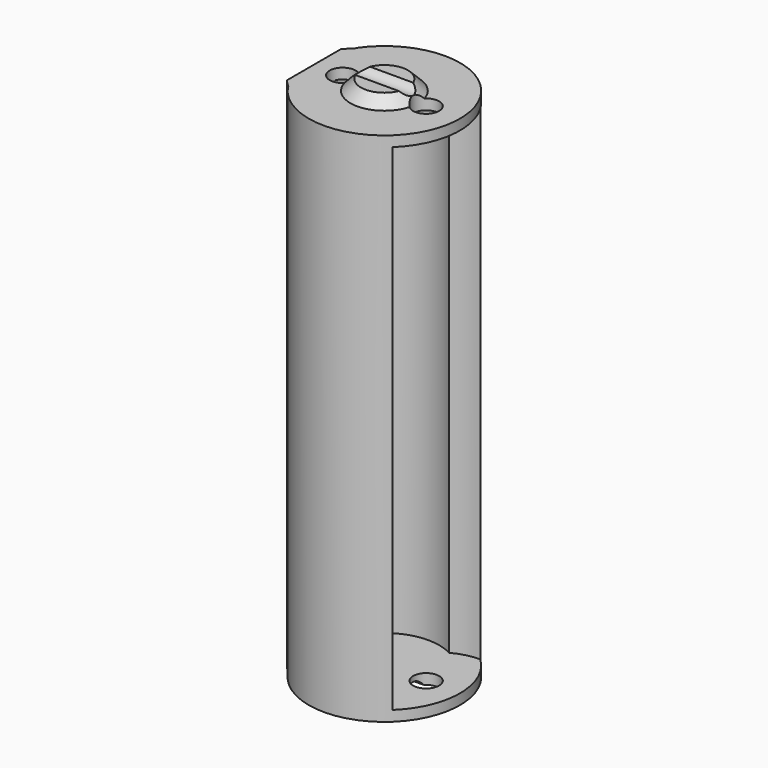
from build123d import *

# Parameters (mm, degrees)
BOX001_W          = 1.51
BOX001_H          = 9.5
BOX001_DEPTH      = 49.5
CHAMFER001_SIZE   = 1.5
BOX_W             = 5
BOX_H             = 20
BOX_DEPTH         = 60
CYLINDER005_R     = 1.25
CYLINDER005_DEPTH = 55
CYLINDER004_R     = 1.25
CYLINDER004_DEPTH = 55
CYLINDER007_R     = 1
CYLINDER007_DEPTH = 8
CYLINDER006_R     = 1
CYLINDER006_DEPTH = 8
CYLINDER002_R     = 5.25
CYLINDER002_DEPTH = 47.5
CYLINDER003_R     = 5.25
CYLINDER003_DEPTH = 47.5
CYLINDER001_R     = 3.25
CYLINDER001_DEPTH = 50.5
CHAMFER_SIZE      = 1
CYLINDER_R        = 7.25
CYLINDER_DEPTH    = 49.5


with BuildPart() as chamfer001:
    # Box001 → Box001 (new body)
    with BuildSketch(Plane(origin=(-6.76, -4.75, 0), x_dir=(1, 0, 0), z_dir=(0, 0, 1))):
        with Locations((0.755, 4.75)):
            Rectangle(BOX001_W, BOX001_H)
    extrude(amount=BOX001_DEPTH)

    # Chamfer001
    chamfer001_edges = [chamfer001.edges().sort_by_distance(p)[0] for p in [
        (-6.76, -4.75, 24.75),
        (-6.76, 4.75, 24.75),
    ]]
    chamfer(chamfer001_edges, length=CHAMFER001_SIZE)


with BuildPart() as cube:
    # Box → Box (new body)
    with BuildSketch(Plane(origin=(-11, -10, -4), x_dir=(1, 0, 0), z_dir=(0, 0, 1))):
        with Locations((2.5, 10)):
            Rectangle(BOX_W, BOX_H)
    extrude(amount=BOX_DEPTH)


with BuildPart() as cylinder005:
    # Cylinder005 → Cylinder005 (new body)
    with BuildSketch(Plane(origin=(-4, 0, 0), x_dir=(1, 0, 0), z_dir=(0, 0, 1))):
        Circle(CYLINDER005_R)
    extrude(amount=CYLINDER005_DEPTH)


with BuildPart() as cylinder004:
    # Cylinder004 → Cylinder004 (new body)
    with BuildSketch(Plane(origin=(4, 0, 0), x_dir=(1, 0, 0), z_dir=(0, 0, 1))):
        Circle(CYLINDER004_R)
    extrude(amount=CYLINDER004_DEPTH)


with BuildPart() as cylinder007:
    # Cylinder007 → Cylinder007 (new body)
    with BuildSketch(Plane(origin=(-4, 0, -0.5), x_dir=(0, 0, -1), z_dir=(1, 0, 0))):
        Circle(CYLINDER007_R)
    extrude(amount=CYLINDER007_DEPTH)


with BuildPart() as fusion002:
    # Cylinder006 → Cylinder006 (new body)
    with BuildSketch(Plane(origin=(-4, 0, 51), x_dir=(0, 0, -1), z_dir=(1, 0, 0))):
        Circle(CYLINDER006_R)
    extrude(amount=CYLINDER006_DEPTH)

    # Fusion002: union Cylinder005, Cylinder004, Cylinder007
    add(cylinder005.part)
    add(cylinder004.part)
    add(cylinder007.part)


with BuildPart() as cylinder002:
    # Cylinder002 → Cylinder002 (new body)
    with BuildSketch(Plane.XY.offset(1)):
        Circle(CYLINDER002_R)
    extrude(amount=CYLINDER002_DEPTH)


with BuildPart() as fusion001:
    # Cylinder003 → Cylinder003 (new body)
    with BuildSketch(Plane(origin=(5, 0, 1), x_dir=(1, 0, 0), z_dir=(0, 0, 1))):
        Circle(CYLINDER003_R)
    extrude(amount=CYLINDER003_DEPTH)

    # Fusion001: union Cylinder002
    add(cylinder002.part)


with BuildPart() as chamfer_body:
    # Cylinder001 → Cylinder001 (new body)
    with BuildSketch(Plane.XY):
        Circle(CYLINDER001_R)
    extrude(amount=CYLINDER001_DEPTH)

    # Chamfer
    chamfer_edges = [chamfer_body.edges().sort_by_distance(p)[0] for p in [
        (-3.25, 0, 50.5),
        (-3.25, 0, 0),
    ]]
    chamfer(chamfer_edges, length=CHAMFER_SIZE)


with BuildPart() as fusion003:
    # Cylinder → Cylinder (new body)
    with BuildSketch(Plane.XY):
        Circle(CYLINDER_R)
    extrude(amount=CYLINDER_DEPTH)

    # Fusion: union Chamfer body
    add(chamfer_body.part)

    # Cut: cut Fusion001
    add(fusion001.part, mode=Mode.SUBTRACT)

    # Cut001: cut Fusion002
    add(fusion002.part, mode=Mode.SUBTRACT)

    # Cut002: cut Cube
    add(cube.part, mode=Mode.SUBTRACT)

    # Fusion003: union Chamfer001
    add(chamfer001.part)


solid = fusion003.part
